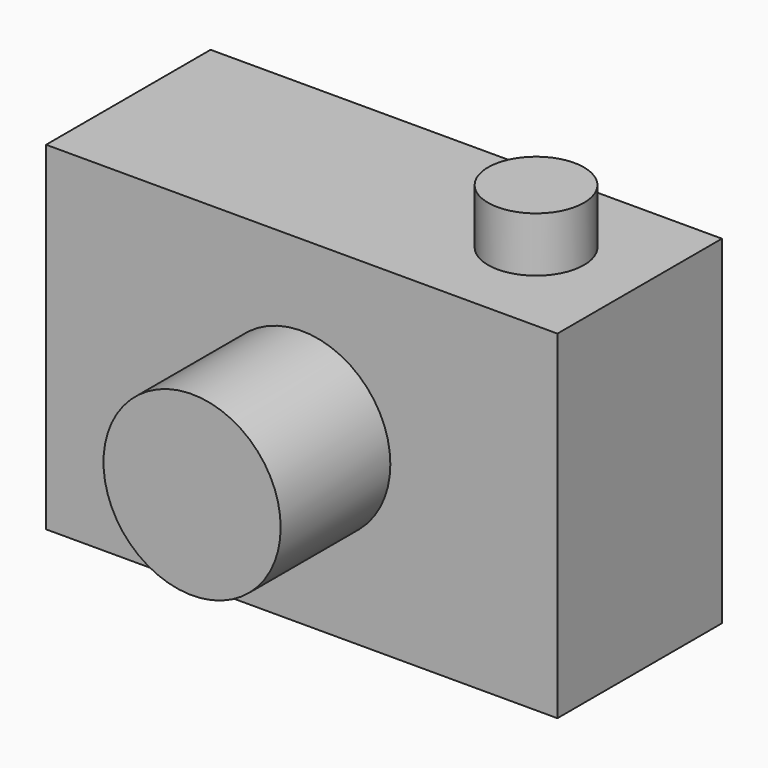
from build123d import *

# Parameters (mm, degrees)
F0_W          = 94.742008
F0_H          = 62.738002
F1_DEPTH      = 38.1
F2_R          = 16.414966
F3_DEPTH      = 25.4
F3_DEPTH_BACK = 12.7
F4_R          = 8.890001
F5_DEPTH      = 10.16


with BuildPart() as f1:
    # F0 (on Front) → F1 (new body)
    with BuildSketch(Plane.XZ):
        Rectangle(F0_W, F0_H)
    extrude(amount=F1_DEPTH)

    # F2 (on face) → F3 (join, two sides)
    with BuildSketch(Plane.XZ.offset(38.1)) as f3_sk:
        Circle(F2_R)
    extrude(amount=F3_DEPTH)
    extrude(f3_sk.sketch, amount=-F3_DEPTH_BACK)

    # F4 (on face) → F5 (join)
    with BuildSketch(Plane.XY.offset(31.369001)):
        with Locations((28.066998, -18.923)):
            Circle(F4_R)
    extrude(amount=F5_DEPTH)


solid = f1.part
